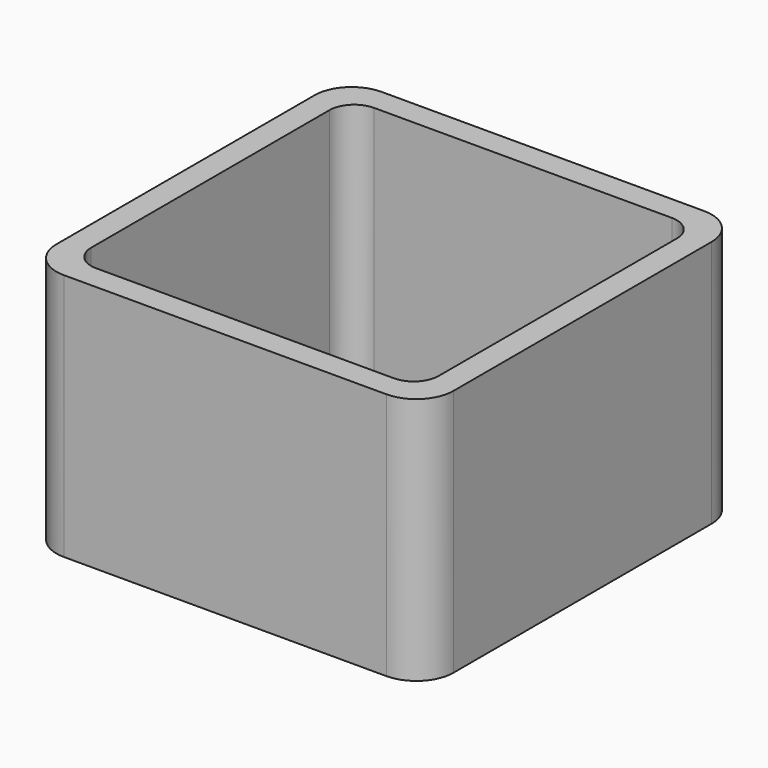
from build123d import *

# Parameters (mm, degrees)
EXTRUDE_DEPTH = 50


with BuildPart() as part:
    # Sketch → Extrude (new body)
    with BuildSketch(Plane.XY):
        with BuildLine():
            Line((-32.5, 40), (32.5, 40))
            ThreePointArc((40, 32.5), (37.803301, 37.803301), (32.5, 40))
            Line((40, 32.5), (40, -32.5))
            ThreePointArc((32.5, -40), (37.803301, -37.803301), (40, -32.5))
            Line((32.5, -40), (-32.5, -40))
            ThreePointArc((-40, -32.5), (-37.803301, -37.803301), (-32.5, -40))
            Line((-40, -32.5), (-40, 32.5))
            ThreePointArc((-32.5, 40), (-37.803301, 37.803301), (-40, 32.5))
        make_face()
        with BuildLine():
            Line((-30, 35), (30, 35))
            ThreePointArc((35, 30), (33.535534, 33.535534), (30, 35))
            Line((35, 30), (35, -30))
            ThreePointArc((30, -35), (33.535534, -33.535534), (35, -30))
            Line((30, -35), (-30, -35))
            ThreePointArc((-35, -30), (-33.535534, -33.535534), (-30, -35))
            Line((-35, -30), (-35, 30))
            ThreePointArc((-30, 35), (-33.535534, 33.535534), (-35, 30))
        make_face(mode=Mode.SUBTRACT)
    extrude(amount=EXTRUDE_DEPTH)


solid = part.part
